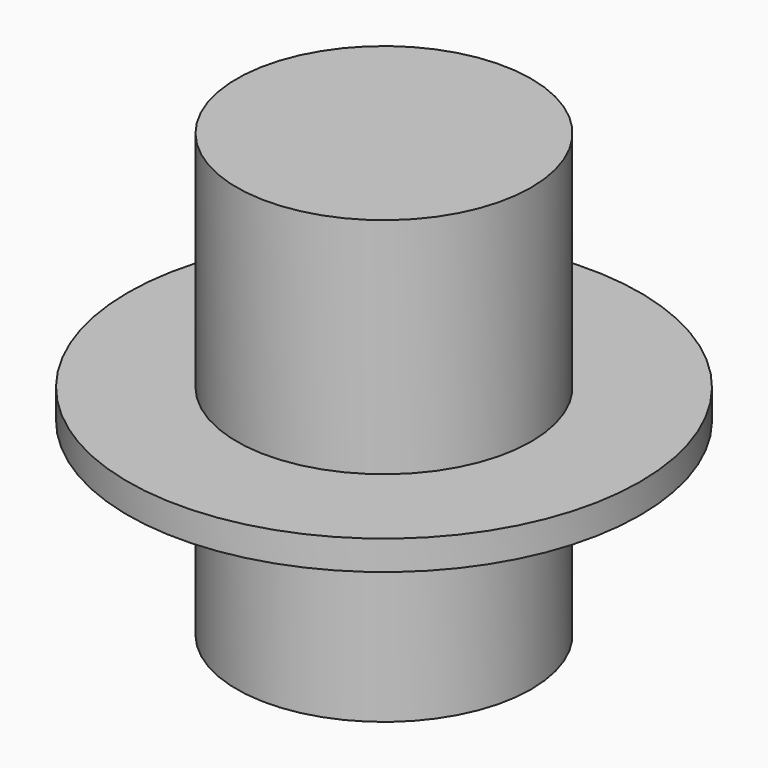
from build123d import *

# Parameters (mm, degrees)
CIRCLE001_R          = 8.697725
EXTRUDE_DEPTH        = 1
CYLINDER_R           = 5
CYLINDER_DEPTH       = 15
CLONE013_SCALE_SCALE = 2.2


with BuildPart() as obj1:
    # Circle001 → Extrude (new body)
    with BuildSketch(Plane.XY.offset(57.640399)):
        Circle(CIRCLE001_R)
    extrude(amount=EXTRUDE_DEPTH)


with BuildPart() as obj1_1:
    # Extrude placement: moved
    add(obj1.part.moved(Location((0, 0, -8.594981))))


with BuildPart() as obj2:
    # Cylinder → Cylinder (new body)
    with BuildSketch(Plane.XY.offset(42.640399)):
        Circle(CYLINDER_R)
    extrude(amount=CYLINDER_DEPTH)

    # Fusion002: union obj1
    add(obj1_1.part)


with BuildPart() as obj2_1:
    # Clone013 scale: moved
    add(obj2.part.scale(CLONE013_SCALE_SCALE))


solid = obj2_1.part
